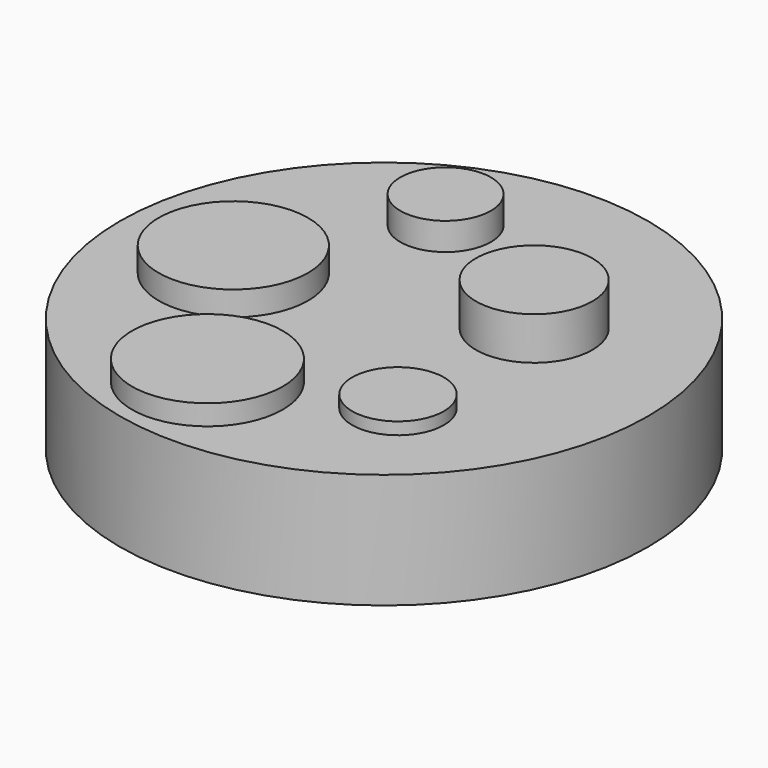
from build123d import *

# Parameters (mm, degrees)
F0_R      = 65.900375
F1_DEPTH  = 28.702
F2_R      = 11.305854
F3_DEPTH  = 6.858
F4_R      = 18.635384
F5_DEPTH  = 6.096
F6_R      = 14.542748
F7_DEPTH  = 10.668
F8_R      = 11.447627
F9_DEPTH  = 3.048
F10_R     = 18.815081
F11_DEPTH = 5.08


with BuildPart() as f1:
    # F0 (on Top) → F1 (new body)
    with BuildSketch(Plane.XY):
        Circle(F0_R)
    extrude(amount=-F1_DEPTH)

    # F2 (on Top) → F3 (join)
    with BuildSketch(Plane.XY):
        with Locations((-15.24, 38.25875)):
            Circle(F2_R)
    extrude(amount=F3_DEPTH)

    # F4 (on Top) → F5 (join)
    with BuildSketch(Plane.XY):
        with Locations((-34.924999, -3.33375)):
            Circle(F4_R)
    extrude(amount=F5_DEPTH)

    # F6 (on Top) → F7 (join)
    with BuildSketch(Plane.XY):
        with Locations((25.400002, 15.08125)):
            Circle(F6_R)
    extrude(amount=F7_DEPTH)

    # F8 (on Top) → F9 (join)
    with BuildSketch(Plane.XY):
        with Locations((25.717501, -27.78125)):
            Circle(F8_R)
    extrude(amount=F9_DEPTH)

    # F10 (on Top) → F11 (join)
    with BuildSketch(Plane.XY):
        with Locations((-10.230287, -42.295363)):
            Circle(F10_R)
    extrude(amount=F11_DEPTH)


solid = f1.part
